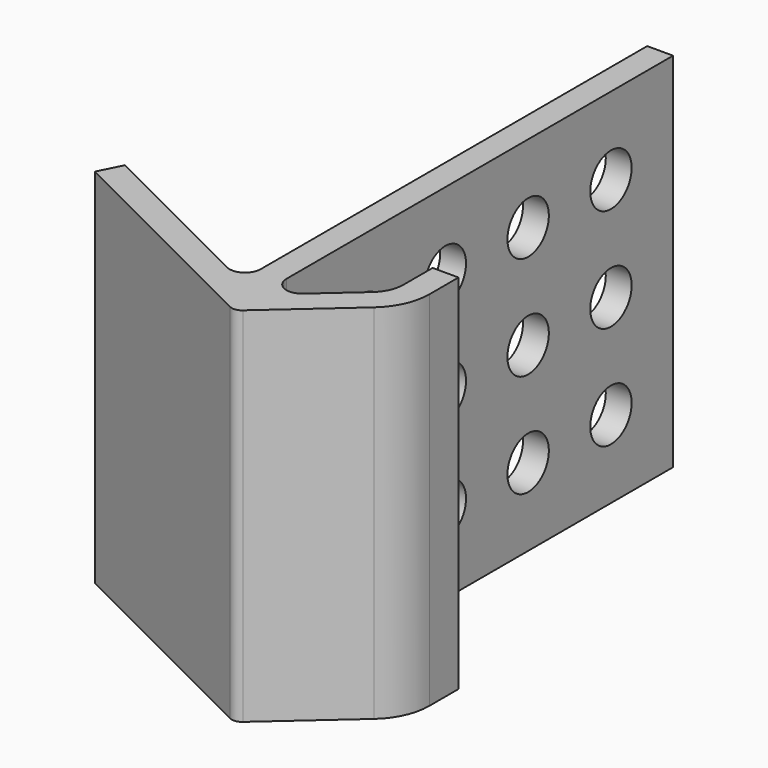
from build123d import *

# Parameters (mm, degrees)
F1_DEPTH = 70
F2_R     = 5
F3_DEPTH = 25
F4_R     = 2


with BuildPart() as f1:
    # F0 (on Top) → F1 (new body)
    with BuildSketch(Plane.XY):
        with BuildLine():
            Line((-17.657248, -31.933628), (-17.657248, 61.409633))
            Line((-17.657248, 61.409633), (-22.657248, 61.409633))
            Line((-22.657248, 61.409633), (-22.657248, -31.933628))
            ThreePointArc((-22.657248, -31.933628), (-24.080087, -34.4856), (-26.998956, -34.616876))
            Line((-26.998956, -34.616876), (-59.862951, -18.183851))
            Line((-59.862951, -18.183851), (-62.09913, -22.655931))
            Line((-62.09913, -22.655931), (-17.37833, -45.017729))
            Line((-17.37833, -45.017729), (-1.489394, -30.969989))
            ThreePointArc((-1.489394, -30.969989), (1.340461, -27.130205), (2.342752, -22.466792))
            Line((2.342752, -22.466792), (2.342752, -15.403016))
            Line((2.342752, -15.403016), (-2.657248, -15.403016))
            Line((-2.657248, -15.403016), (-2.657248, -22.466792))
            ThreePointArc((-2.657248, -22.466792), (-3.218001, -25.075838), (-4.801224, -27.224087))
            Line((-4.801224, -27.224087), (-12.67015, -34.181169))
            ThreePointArc((-12.67015, -34.181169), (-15.889868, -34.668705), (-17.657248, -31.933628))
        make_face()
    extrude(amount=F1_DEPTH)

    # F2 (on face) → F3 (cut)
    with BuildSketch(Plane.YZ.offset(-17.657248)):
        with Locations((46.409633, 55)):
            Circle(F2_R)
        with Locations((46.409633, 35)):
            Circle(F2_R)
        with Locations((46.409633, 15)):
            Circle(F2_R)
        with Locations((26.409633, 55)):
            Circle(F2_R)
        with Locations((26.409633, 35)):
            Circle(F2_R)
        with Locations((26.409633, 15)):
            Circle(F2_R)
        with Locations((6.409633, 55)):
            Circle(F2_R)
        with Locations((6.409633, 35)):
            Circle(F2_R)
        with Locations((6.409633, 15)):
            Circle(F2_R)
        with Locations((-13.590367, 55)):
            Circle(F2_R)
        with Locations((-13.590367, 35)):
            Circle(F2_R)
        with Locations((-13.590367, 15)):
            Circle(F2_R)
    extrude(amount=-F3_DEPTH, mode=Mode.SUBTRACT)

    # F4
    f4_edges = [f1.edges().sort_by_distance(p)[0] for p in [
        (-17.37833, -45.017729, 35),
    ]]
    fillet(f4_edges, radius=F4_R)


solid = f1.part
